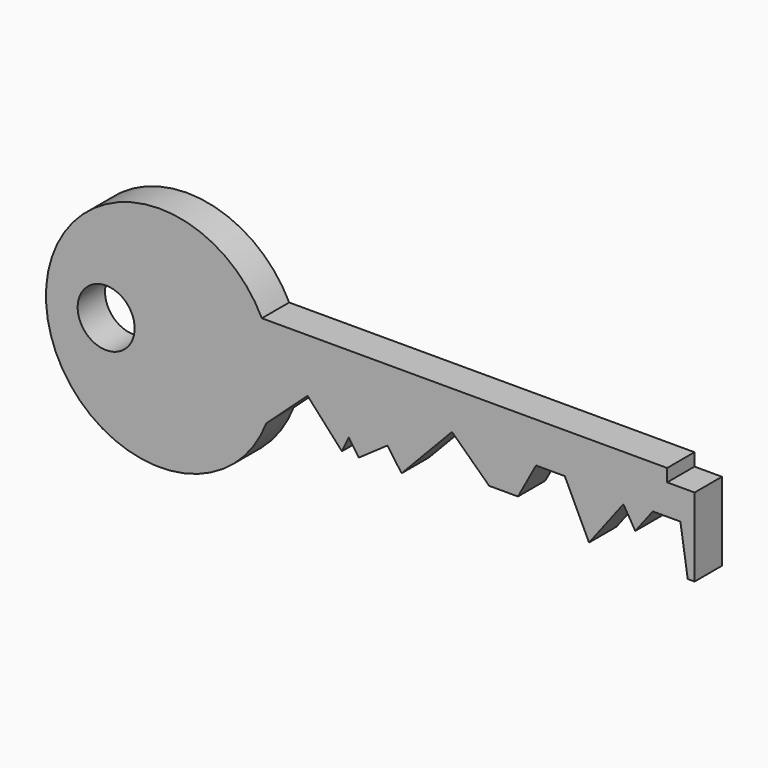
from build123d import *

# Parameters (mm, degrees)
F1_DEPTH = 3
F3_DEPTH = 25
F4_W     = 3.49161
F4_H     = 1.112773
F5_DEPTH = 25
F6_R     = 2.5
F7_DEPTH = 25


with BuildPart() as f1:
    # F0 (on Front) → F1 (new body)
    with BuildSketch(Plane.XZ):
        with BuildLine():
            ThreePointArc((-34.598693, 13.199997), (-34.108076, 14.95115), (-33.942714, 16.762199))
            ThreePointArc((-33.942714, 16.762199), (-34.205836, 19.04106), (-34.981355, 21.199997))
            ThreePointArc((-34.981355, 21.199997), (-53.931293, 16.284418), (-34.598693, 13.199997))
        make_face()
        with BuildLine():
            ThreePointArc((-34.981355, 21.199997), (-34.205836, 19.04106), (-33.942714, 16.762199))
            ThreePointArc((-33.942714, 16.762199), (-34.108076, 14.95115), (-34.598693, 13.199997))
            Line((-34.598693, 13.199997), (3.018645, 13.199997))
            Line((3.018645, 13.199997), (3.018645, 21.199997))
            Line((3.018645, 21.199997), (-34.981355, 21.199997))
        make_face()
    extrude(amount=F1_DEPTH)

    # F2 (on face) → F3 (cut)
    with BuildSketch(Plane.XZ.offset(3)):
        Polygon((-30.966062, 16.508911), (-34.598693, 13.199997), (-27.952018, 13.199997), align=None)
        Polygon((-27.350497, 14.478252), (-27.952018, 13.199997), (-26.458988, 13.199997), align=None)
        Polygon((-23.940648, 14.956392), (-26.458988, 13.199997), (-22.715665, 13.199997), align=None)
        Polygon((-18.286822, 17.846175), (-22.715665, 13.199997), (-6.251452, 13.199997), (-8.381168, 17.648062), (-10.90711, 17.648062), (-12.492014, 14.733944), (-15.021867, 14.733944), align=None)
        Polygon((-6.251452, 13.199997), (2.415996, 13.199997), (1.772129, 17.432725), (-0.651208, 17.432725), (-2.190134, 15.419289), (-3.230228, 17.152779), align=None)
    extrude(amount=-F3_DEPTH, mode=Mode.SUBTRACT)

    # F4 (on face) → F5 (cut)
    with BuildSketch(Plane.XZ.offset(3)):
        with Locations((2.354657, 20.643611)):
            Rectangle(F4_W, F4_H)
    extrude(amount=-F5_DEPTH, mode=Mode.SUBTRACT)

    # F6 (on face) → F7 (cut)
    with BuildSketch(Plane.XZ.offset(3)):
        with Locations((-48.656683, 16.782803)):
            Circle(F6_R)
    extrude(amount=-F7_DEPTH, mode=Mode.SUBTRACT)


solid = f1.part
